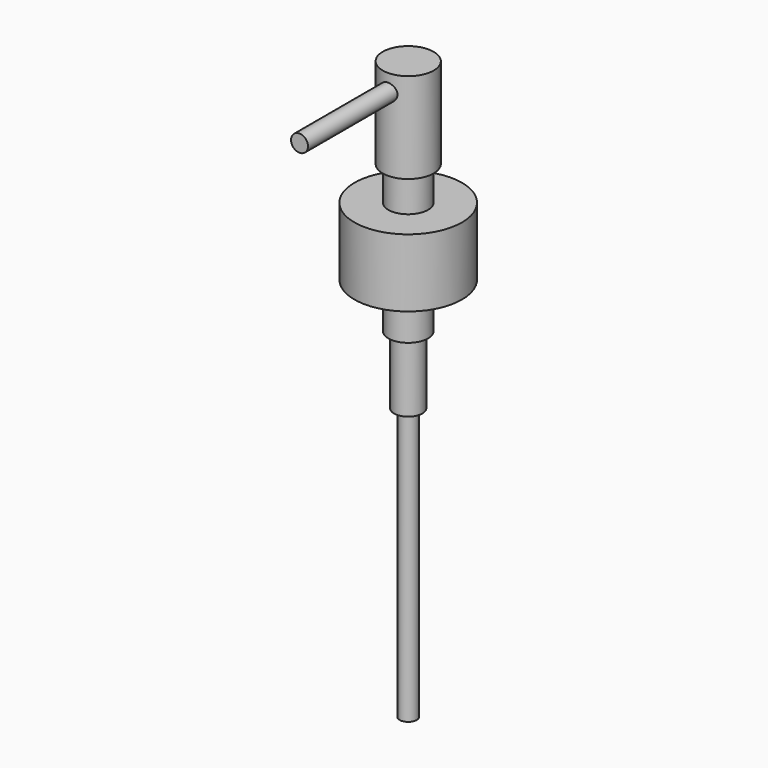
from build123d import *

# Parameters (mm, degrees)
F2_DEPTH = 38.1


with BuildPart() as f1:
    # F0 (on Front) → F1 (revolve)
    with BuildSketch(Plane.XZ):
        with BuildLine():
            Line((0, 154.78125), (0, 0))
            Line((0, 0), (2.38125, 0))
            Line((2.38125, 0), (2.38125, 76.2))
            Line((2.38125, 76.2), (3.96875, 76.2))
            Line((3.96875, 76.2), (3.96875, 95.25))
            Line((3.96875, 95.25), (5.55625, 95.25))
            Line((5.55625, 95.25), (5.55625, 120.65))
            Line((5.55625, 120.65), (11.90625, 120.65))
            Line((11.90625, 120.65), (11.90625, 107.95))
            Line((11.90625, 107.95), (15.08125, 107.95))
            Line((15.08125, 107.95), (15.08125, 127))
            Line((15.08125, 127), (5.55625, 127))
            Line((5.55625, 127), (5.55625, 136.525))
            Line((5.55625, 136.525), (7.14375, 136.525))
            Line((7.14375, 136.525), (7.14375, 161.925))
            Line((7.14375, 161.925), (0, 161.925))
            Line((0, 161.925), (0, 159.54375))
            ThreePointArc((0, 159.54375), (1.6837980227, 158.8462980227), (2.38125, 157.1625))
            ThreePointArc((2.38125, 157.1625), (1.6837980227, 155.4787019773), (0, 154.78125))
        make_face()
    revolve(axis=Axis((0, 0, 80.9625), (0, 0, 1)))

    # F0 (on Front) → F2 (join)
    with BuildSketch(Plane.XZ):
        with BuildLine():
            ThreePointArc((0, 159.54375), (-2.38125, 157.1625), (0, 154.78125))
            Line((0, 154.78125), (0, 159.54375))
        make_face()
        with BuildLine():
            Line((0, 159.54375), (0, 154.78125))
            ThreePointArc((0, 154.78125), (1.6837980227, 155.4787019773), (2.38125, 157.1625))
            ThreePointArc((2.38125, 157.1625), (1.6837980227, 158.8462980227), (0, 159.54375))
        make_face()
    extrude(amount=F2_DEPTH)


solid = f1.part
